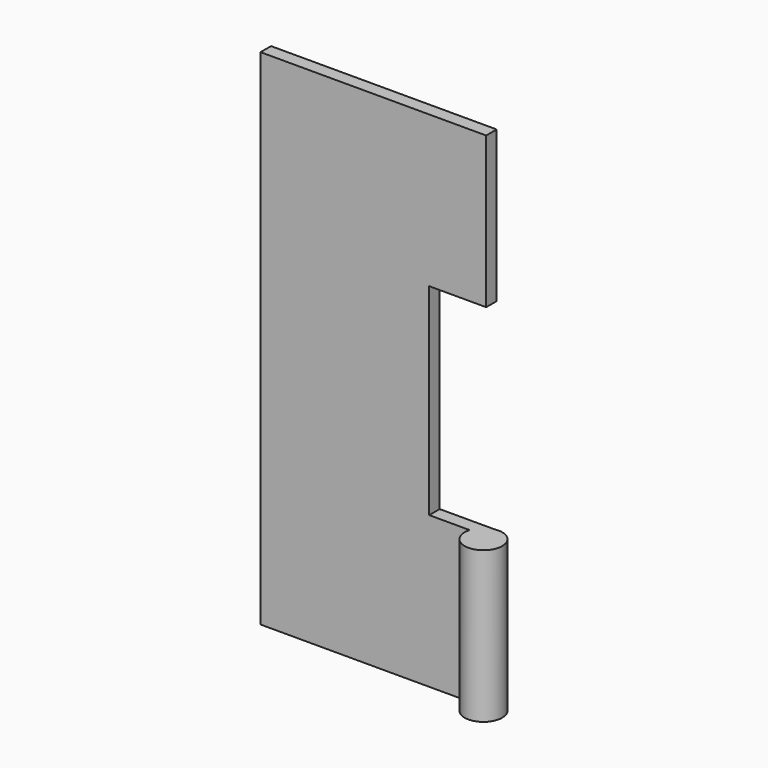
from build123d import *

# Parameters (mm, degrees)
F1_DEPTH = 3
F2_R     = 4.276826
F3_DEPTH = 34.5


with BuildPart() as f1:
    # F0 (on Front) → F1 (new body)
    with BuildSketch(Plane.XZ):
        Polygon((0, 115), (0, 0), (51.5, 0), (51.5, 34.5), (38.5, 34.5), (38.5, 80.5), (51.5, 80.5), (51.5, 115), align=None)
    extrude(amount=F1_DEPTH)

    # F2 (on Top) → F3 (join)
    with BuildSketch(Plane.XY):
        with Locations((51.838867, -4.196258)):
            Circle(F2_R)
    extrude(amount=F3_DEPTH)


solid = f1.part
